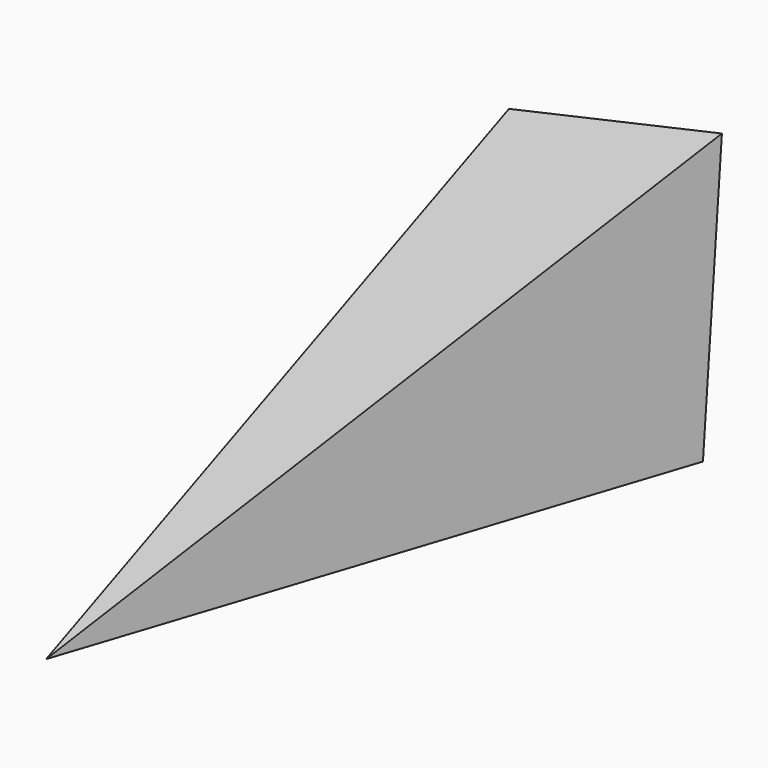
from build123d import *

# Parameters (mm, degrees)
F0_W     = 100
F0_H     = 140
F1_DEPTH = 300
F4_DEPTH = 140.001
F5_DEPTH = 100.001
F6_ANGLE = 20
F7_ANGLE = 20
F8_W     = 212.240686353
F8_H     = 198.875214911
F9_DEPTH = 142


with BuildPart() as f1:
    # F0 (on Front) → F1 (new body)
    with BuildSketch(Plane.XZ):
        with Locations((50, 70)):
            Rectangle(F0_W, F0_H)
    extrude(amount=F1_DEPTH)

    # F2 (on face) → F4 (cut, through all)
    with BuildSketch(Plane.XY.offset(140)):
        Polygon((50, -300), (0, 0), (-43.4896158054, -321.4669823647), (163.4580759332, -380.9873461723), (100, 0), align=None)
    extrude(amount=-F4_DEPTH, mode=Mode.SUBTRACT)

    # F3 (on face) → F5 (cut, through all)
    with BuildSketch(Plane.YZ.offset(100)):
        Polygon((-300, 70), (0, 140), (-333.8288962841, 174.1326918269), (-333.8288962841, -23.4987252064), (0, 0), align=None)
    extrude(amount=-F5_DEPTH, mode=Mode.SUBTRACT)


with BuildPart() as f1_1:
    # F6: moved
    add(f1.part.rotate(Axis((100, 0, 70), (0, 0, -1)), F6_ANGLE))


with BuildPart() as f1_2:
    # F7: moved
    add(f1_1.part.rotate(Axis((53.0153689607, 17.1010071663, 140), (0.9396926208, -0.3420201433, 0)), F7_ANGLE))

    # F8 (on Top) → F9 (cut, symmetric)
    with BuildSketch(Plane.XY):
        with Locations((27.6002858933, 24.7314047101)):
            Rectangle(F8_W, F8_H)
    extrude(amount=F9_DEPTH, both=True, mode=Mode.SUBTRACT)


solid = f1_2.part
